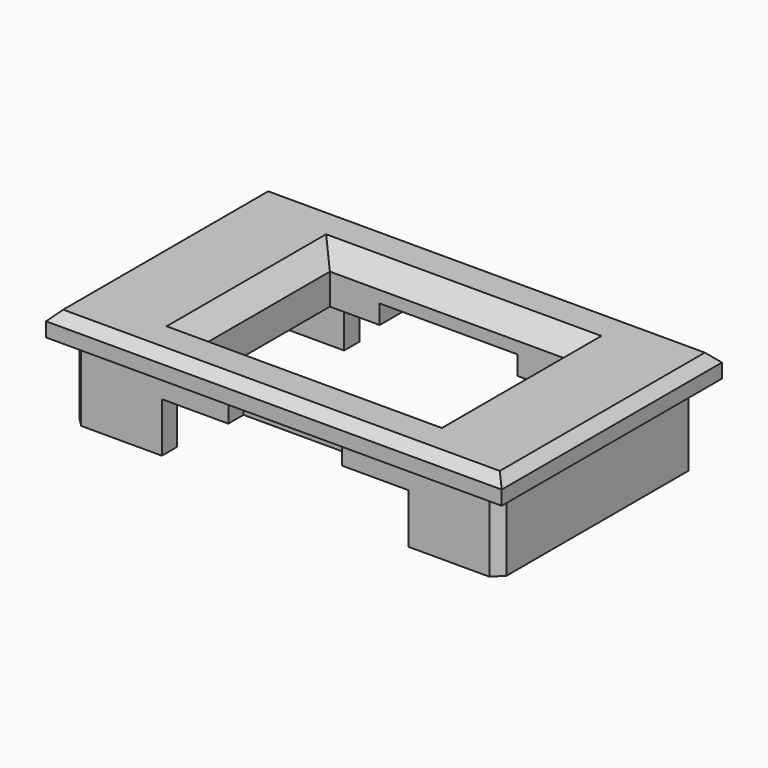
from build123d import *

# Parameters (mm, degrees)
SKETCH_W        = 45
SKETCH_H        = 26
PAD_DEPTH       = 8
SKETCH001_W     = 48
SKETCH001_H     = 29
PAD001_DEPTH    = 2.5
SKETCH002_W     = 25
SKETCH002_H     = 17
POCKET_DEPTH    = 10.501
SKETCH003_W     = 41
SKETCH003_H     = 22
POCKET001_DEPTH = 5.25
SKETCH004_W     = 26
SKETCH004_H     = 27.5
POCKET002_DEPTH = 5.251
SKETCH005_W     = 12
SKETCH005_H     = 2.5
POCKET003_DEPTH = 2
SKETCH006_W     = 14.5
SKETCH006_H     = 4.5
POCKET004_DEPTH = 2
CHAMFER_SIZE    = 1
CHAMFER001_SIZE = 2
CHAMFER002_SIZE = 1


with BuildPart() as part:
    # Sketch → Pad (new body)
    with BuildSketch(Plane.XY):
        Rectangle(SKETCH_W, SKETCH_H)
    extrude(amount=PAD_DEPTH)

    # Sketch001 (on Face6 of Pad) → Pad001 (join)
    with BuildSketch(Plane.XY.offset(8)):
        Rectangle(SKETCH001_W, SKETCH001_H)
    extrude(amount=PAD001_DEPTH)

    # Sketch002 (on Face5 of Pad001) → Pocket (cut, through all)
    with BuildSketch(Plane.XY.offset(10.5)):
        Rectangle(SKETCH002_W, SKETCH002_H)
    extrude(amount=-POCKET_DEPTH, mode=Mode.SUBTRACT)

    # Sketch003 (on Face15 of Pocket) → Pocket001 (cut)
    with BuildSketch(Plane(origin=(0, 0, 0), x_dir=(1, 0, 0), z_dir=(0, 0, -1))):
        Rectangle(SKETCH003_W, SKETCH003_H)
    extrude(amount=-POCKET001_DEPTH, mode=Mode.SUBTRACT)

    # Sketch004 (on Face16 of Pocket001) → Pocket002 (cut, through all)
    with BuildSketch(Plane(origin=(0, 0, 5.25), x_dir=(1, 0, 0), z_dir=(0, 0, -1))):
        Rectangle(SKETCH004_W, SKETCH004_H)
    extrude(amount=POCKET002_DEPTH, mode=Mode.SUBTRACT)

    # Sketch005 (on Face17 of Pocket002) → Pocket003 (cut)
    with BuildSketch(Plane(origin=(0, 0, 5.25), x_dir=(1, 0, 0), z_dir=(0, 0, -1))):
        with Locations((0, 12.25)):
            Rectangle(SKETCH005_W, SKETCH005_H)
    extrude(amount=-POCKET003_DEPTH, mode=Mode.SUBTRACT)

    # Sketch006 (on Face27 of Pocket003) → Pocket004 (cut)
    with BuildSketch(Plane(origin=(0, 0, 5.25), x_dir=(1, 0, 0), z_dir=(0, 0, -1))):
        with Locations((0, -10.75)):
            Rectangle(SKETCH006_W, SKETCH006_H)
    extrude(amount=-POCKET004_DEPTH, mode=Mode.SUBTRACT)

    # Chamfer
    chamfer_edges = [part.edges().sort_by_distance(p)[0] for p in [
        (24, 0, 10.5),
        (0, -14.5, 10.5),
        (0, 14.5, 10.5),
        (-24, 0, 10.5),
    ]]
    chamfer(chamfer_edges, length=CHAMFER_SIZE)

    # Chamfer001
    chamfer001_edges = [part.edges().sort_by_distance(p)[0] for p in [
        (0, 8.5, 10.5),
        (-12.5, 0, 10.5),
        (0, -8.5, 10.5),
        (12.5, 0, 10.5),
    ]]
    chamfer(chamfer001_edges, length=CHAMFER001_SIZE)

    # Chamfer002
    chamfer002_edges = [part.edges().sort_by_distance(p)[0] for p in [
        (-22.5, 13, 4),
        (-22.5, -13, 4),
        (22.5, 13, 4),
        (22.5, -13, 4),
    ]]
    chamfer(chamfer002_edges, length=CHAMFER002_SIZE)


solid = part.part
